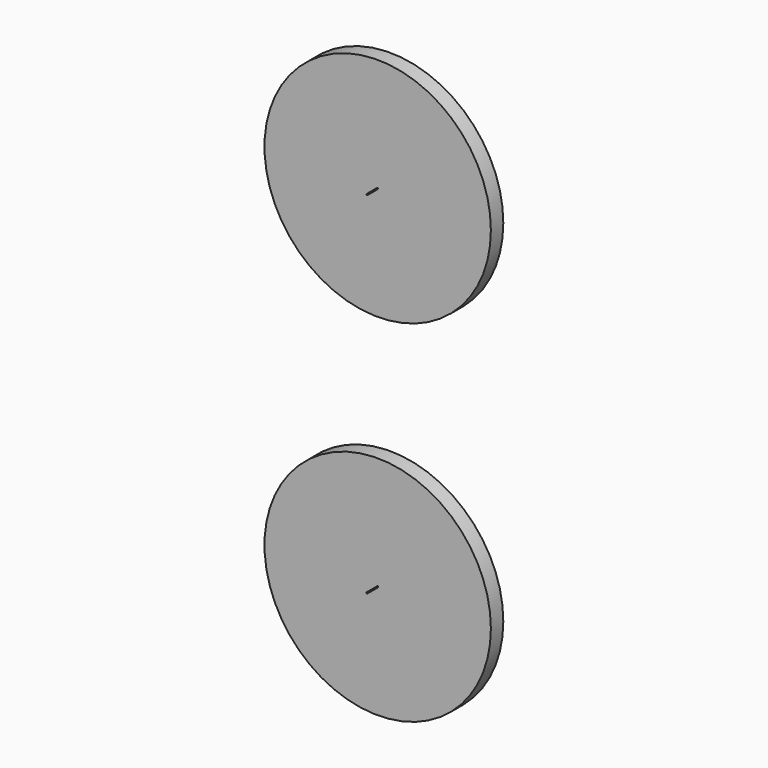
from build123d import *

# Parameters (mm, degrees)
F0_R          = 323.85
F0_R_2        = 1.5875
F1_DEPTH      = 44.45
F2_DEPTH      = 82.55
F2_DEPTH_BACK = 38.1


with BuildPart() as f1:
    # F0 (on Front) → F1 (new body)
    with BuildSketch(Plane.XZ):
        with Locations((-481.951356, 252.652913)):
            Circle(F0_R)
        with Locations((-481.951356, 252.652913)):
            Circle(F0_R_2, mode=Mode.SUBTRACT)
    extrude(amount=F1_DEPTH)


with BuildPart() as f2:
    # F0 (on Front) → F2 (new body, two sides)
    with BuildSketch(Plane.XZ) as f2_sk:
        with Locations((-481.951356, 252.652913)):
            Circle(F0_R_2)
    extrude(amount=F2_DEPTH)
    extrude(f2_sk.sketch, amount=-F2_DEPTH_BACK)


with BuildPart() as f3_1:
    # F3: copy of F2
    add(f2.part.moved(Location((0, 0, 1003.3))))


with BuildPart() as f3_2:
    # F3: copy of F1
    add(f1.part.moved(Location((0, 0, 1003.3))))


solid = Compound([f1.part, f2.part, f3_1.part, f3_2.part])
